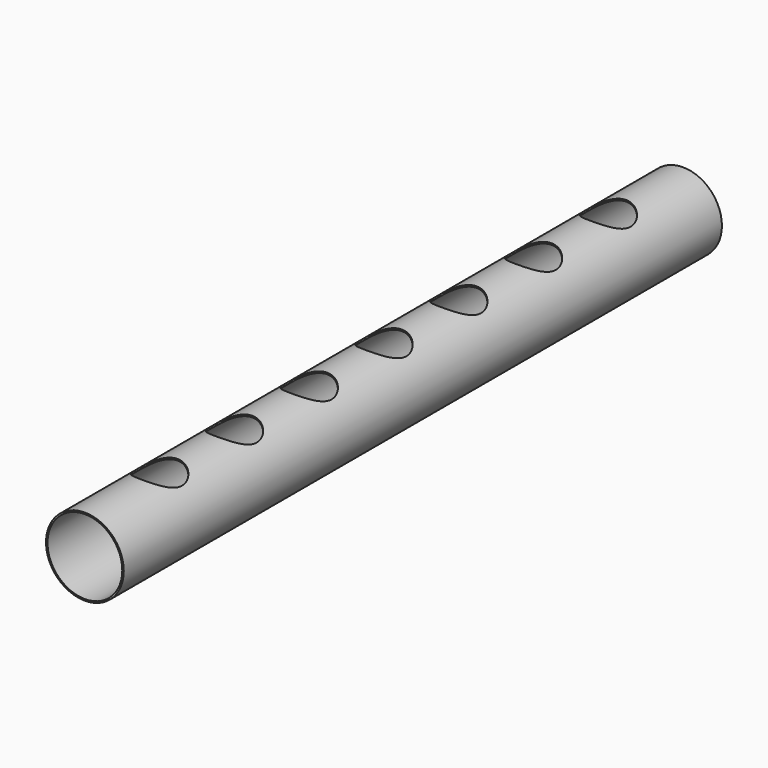
from build123d import *

# Parameters (mm, degrees)
F0_R     = 52
F0_R_2   = 50
F1_DEPTH = 1000
F2_R     = 30
F3_DEPTH = 100


with BuildPart() as f1:
    # F0 (on Front) → F1 (new body)
    with BuildSketch(Plane.XZ):
        Circle(F0_R)
        Circle(F0_R_2, mode=Mode.SUBTRACT)
    extrude(amount=F1_DEPTH)

    # F2 (on Top) → F3 (cut)
    with BuildSketch(Plane.XY):
        with Locations((0, -125)):
            Circle(F2_R)
        with Locations((0, -250)):
            Circle(F2_R)
        with Locations((0, -375)):
            Circle(F2_R)
        with Locations((0, -500)):
            Circle(F2_R)
        with Locations((0, -625)):
            Circle(F2_R)
        with Locations((0, -750)):
            Circle(F2_R)
        with Locations((0, -875)):
            Circle(F2_R)
        with Locations((-440, -875)):
            Circle(F2_R)
        with Locations((-880, -875)):
            Circle(F2_R)
    extrude(amount=F3_DEPTH, mode=Mode.SUBTRACT)


solid = f1.part
